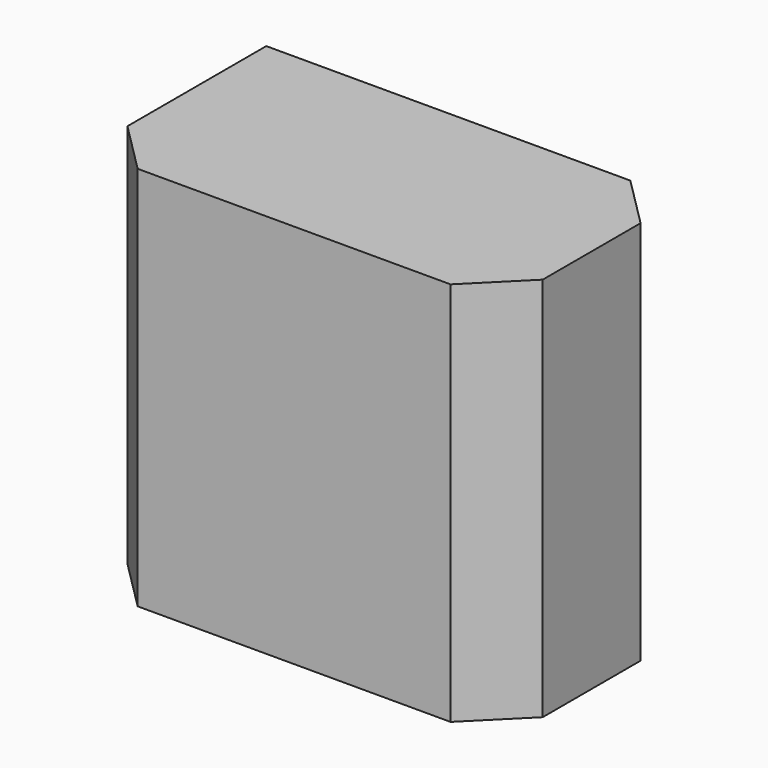
from build123d import *

# Parameters (mm, degrees)
F0_W     = 102.983013
F0_H     = 55.731169
F1_DEPTH = 95.517188
F2_SIZE  = 12.7


with BuildPart() as f1:
    # F0 (on Top) → F1 (new body)
    with BuildSketch(Plane.XY):
        with Locations((-4.354664, 6.353091)):
            Rectangle(F0_W, F0_H)
    extrude(amount=F1_DEPTH)

    # F2
    f2_edges = [f1.edges().sort_by_distance(p)[0] for p in [
        (47.136843, -21.512493, 47.758594),
        (-55.84617, -21.512493, 47.758594),
        (47.136843, 34.218676, 47.758594),
    ]]
    chamfer(f2_edges, length=F2_SIZE)


solid = f1.part
